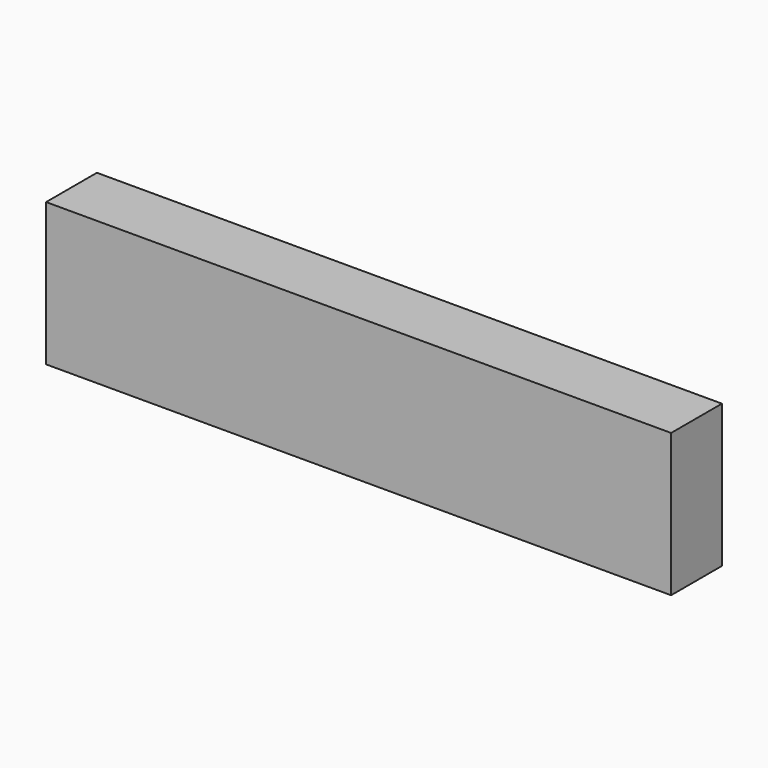
from build123d import *

# Parameters (mm, degrees)
RECTANGLE003_W   = 0.01016
RECTANGLE003_H   = 0.02286
EXTRUDE001_DEPTH = 0.1


with BuildPart() as part:
    # Rectangle003 → Extrude001 (new body)
    with BuildSketch(Plane(origin=(0, -0.00508, -0.01143), x_dir=(0, 1, 0), z_dir=(1, 0, 0))):
        with Locations((0.00508, 0.01143)):
            Rectangle(RECTANGLE003_W, RECTANGLE003_H)
    extrude(amount=-EXTRUDE001_DEPTH)


solid = part.part
